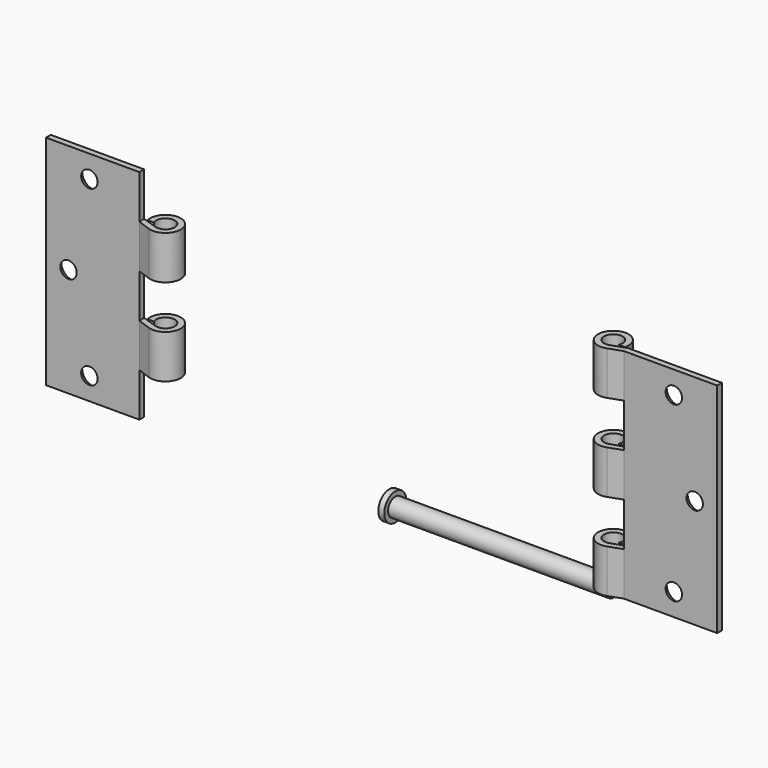
from build123d import *

# Parameters (mm, degrees)
F1_DEPTH  = 292
F2_R      = 16
F3_R      = 11
F10_W     = 50
F10_H     = 58.4
F11_DEPTH = 50
F7_W      = 50
F7_H      = 58.4
F12_DEPTH = 50
F13_R     = 12.25
F14_DEPTH = 300
F13_R_2   = 18.5
F15_DEPTH = 8


with BuildPart() as f1:
    # F0 (on Top) → F1 (new body)
    with BuildSketch(Plane.XY):
        with BuildLine():
            Line((-24.5, -13), (-6.9125695665, -19.2993881247))
            ThreePointArc((-6.9125695665, -19.2993881247), (15.1852087826, 13.7716895924), (-19.8808953521, -5))
            Line((-19.8808953521, -5), (-11.4564392374, -5))
            ThreePointArc((-11.4564392374, -5), (8.4352692932, 9.2247618913), (-3.9577761068, -11.8568970767))
            Line((-3.9577761068, -11.8568970767), (-24.5, -5))
            Line((-24.5, -5), (-149.5, -5))
            Line((-149.5, -5), (-149.5, -13))
            Line((-149.5, -13), (-24.5, -13))
        make_face()
    extrude(amount=F1_DEPTH)

    # F2 (on face) → F4 section 0
    with BuildSketch(Plane(origin=(0, -5, 0), x_dir=(-1, 0, 0), z_dir=(0, 1, 0))):
        with Locations((91.5, 262)):
            Circle(F2_R)
    # F3 (on face) → F4 section 1
    with BuildSketch(Plane.XZ.offset(13)):
        with Locations((-91.5, 262)):
            Circle(F3_R)
    loft(mode=Mode.SUBTRACT)

    # F2 (on face) → F5 section 0
    with BuildSketch(Plane(origin=(0, -5, 0), x_dir=(-1, 0, 0), z_dir=(0, 1, 0))):
        with Locations((119.5, 146)):
            Circle(F2_R)
    # F3 (on face) → F5 section 1
    with BuildSketch(Plane.XZ.offset(13)):
        with Locations((-119.4343939424, 146)):
            Circle(F3_R)
    loft(mode=Mode.SUBTRACT)

    # F2 (on face) → F6 section 0
    with BuildSketch(Plane(origin=(0, -5, 0), x_dir=(-1, 0, 0), z_dir=(0, 1, 0))):
        with Locations((91.5, 30)):
            Circle(F2_R)
    # F3 (on face) → F6 section 1
    with BuildSketch(Plane.XZ.offset(13)):
        with Locations((-91.5, 30)):
            Circle(F3_R)
    loft(mode=Mode.SUBTRACT)


with BuildPart() as f9_1:
    # F9: instance of F1
    add(f1.part.mirror(Plane.YZ.offset(300)))

    # F10 (on face) → F11 (cut, symmetric)
    with BuildSketch(Plane(origin=(0, -5, 0), x_dir=(-1, 0, 0), z_dir=(0, 1, 0))):
        with Locations((-599.5, 204.4)):
            Rectangle(F10_W, F10_H)
        with Locations((-599.5, 87.6)):
            Rectangle(F10_W, F10_H)
    extrude(amount=F11_DEPTH, both=True, mode=Mode.SUBTRACT)


with BuildPart() as f1_1:
    add(f1.part)

    # F7 (on face) → F12 (cut, symmetric)
    with BuildSketch(Plane(origin=(0, -5, 0), x_dir=(-1, 0, 0), z_dir=(0, 1, 0))):
        with Locations((-0.5, 29.2)):
            Rectangle(F7_W, F7_H)
        with Locations((-0.5, 146)):
            Rectangle(F7_W, F7_H)
        with Locations((-0.5, 262.8)):
            Rectangle(F7_W, F7_H)
    extrude(amount=F12_DEPTH, both=True, mode=Mode.SUBTRACT)


with BuildPart() as f14:
    # F13 (on offset) → F14 (new body)
    with BuildSketch(Plane.YZ.offset(300)):
        Circle(F13_R)
    extrude(amount=F14_DEPTH)

    # F13 (on offset) → F15 (join)
    with BuildSketch(Plane.YZ.offset(300)):
        Circle(F13_R_2)
        Circle(F13_R, mode=Mode.SUBTRACT)
    extrude(amount=F15_DEPTH)


solid = Compound([f9_1.part, f1_1.part, f14.part])
